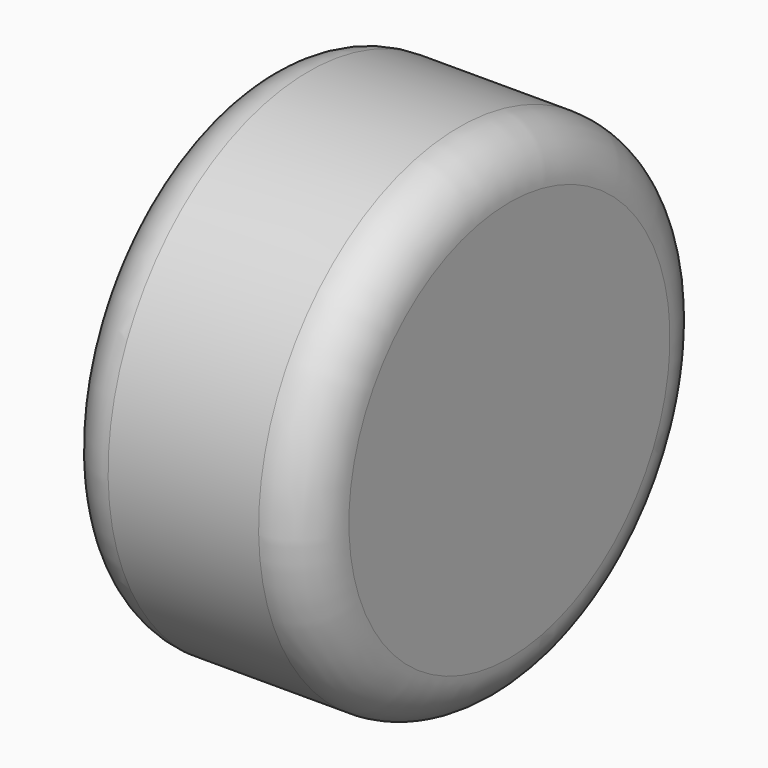
from build123d import *

# Parameters (mm, degrees)
CYLINDER_R           = 1
CYLINDER_DEPTH       = 1
CYLINDER_PITCH_ANGLE = 90
FILLET_R             = 0.2


with BuildPart() as part:
    # Cylinder → Cylinder (new body)
    with BuildSketch(Plane.XY):
        Circle(CYLINDER_R)
    extrude(amount=CYLINDER_DEPTH)


with BuildPart() as part_1:
    # Cylinder pitch: moved
    add(part.part.rotate(Axis((0, 0, 0), (0, 1, 0)), CYLINDER_PITCH_ANGLE))


with BuildPart() as part_2:
    # Cylinder placement: moved
    add(part_1.part)

    # Fillet
    fillet_edges = [part_2.edges().sort_by_distance(p)[0] for p in [
        (1, 0, 1),
        (0, 0, 1),
    ]]
    fillet(fillet_edges, radius=FILLET_R)


solid = part_2.part
